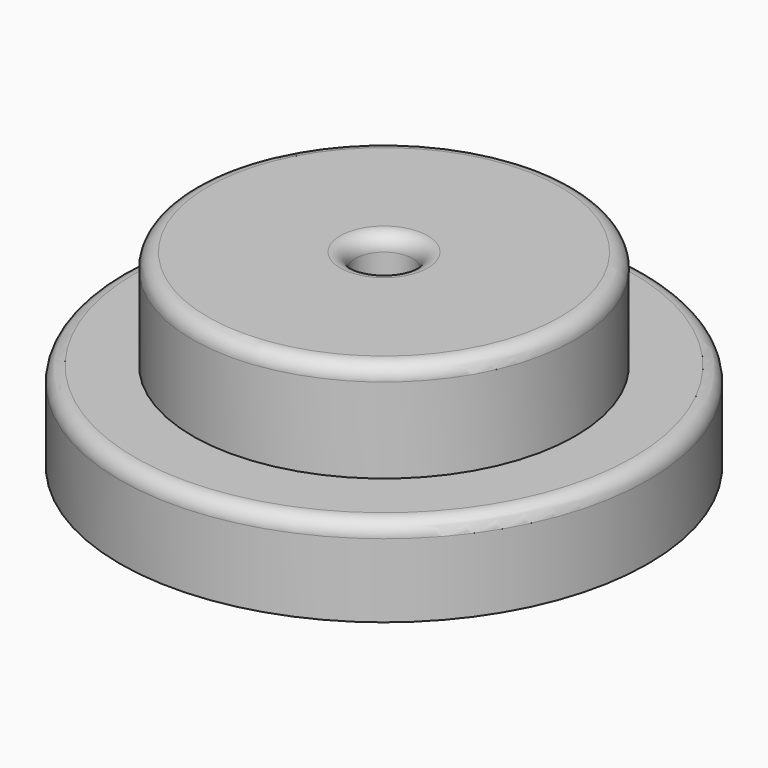
from build123d import *

# Parameters (mm, degrees)
F0_R     = 35
F0_R_2   = 25.35
F1_DEPTH = 11.75
F0_R_3   = 3.8
F2_DEPTH = 25
F3_R     = 2


with BuildPart() as f1:
    # F0 (on Top) → F1 (new body)
    with BuildSketch(Plane.XY):
        Circle(F0_R)
        Circle(F0_R_2, mode=Mode.SUBTRACT)
    extrude(amount=F1_DEPTH)

    # F0 (on Top) → F2 (join)
    with BuildSketch(Plane.XY):
        Circle(F0_R_2)
        Circle(F0_R_3, mode=Mode.SUBTRACT)
    extrude(amount=F2_DEPTH)

    # F3
    f3_edges = [f1.edges().sort_by_distance(p)[0] for p in [
        (-35, 0, 11.75),
        (-25.35, 0, 25),
        (-3.8, 0, 25),
    ]]
    fillet(f3_edges, radius=F3_R)


solid = f1.part
